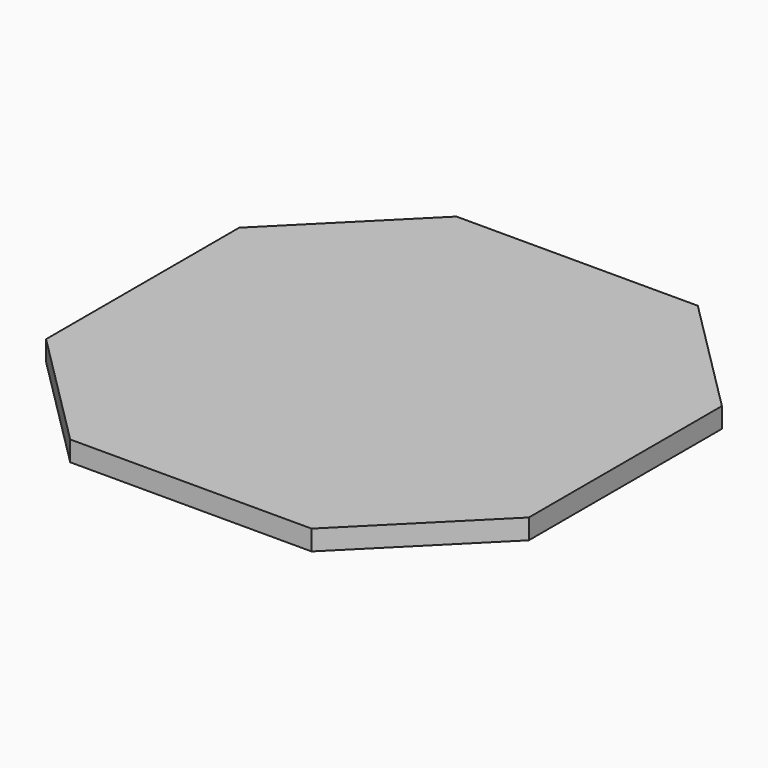
from build123d import *

# Parameters (mm, degrees)
F1_DEPTH = 6.35


with BuildPart() as f1:
    # F0 (on Top) → F1 (new body)
    with BuildSketch(Plane.XY):
        Polygon((0, -76.2), (0, 0), (-76.2, 0), (-76.2, -38.1), (-38.1, -76.2), align=None)
        Polygon((0, 76.2), (0, 0), (76.2, 0), (76.2, 38.1), (38.1, 76.2), align=None)
        Polygon((-76.2, 0), (0, 0), (0, 76.2), (-38.1, 76.2), (-76.2, 38.1), align=None)
        Polygon((76.2, 0), (0, 0), (0, -76.2), (38.1, -76.2), (76.2, -38.1), align=None)
    extrude(amount=F1_DEPTH)


solid = f1.part
